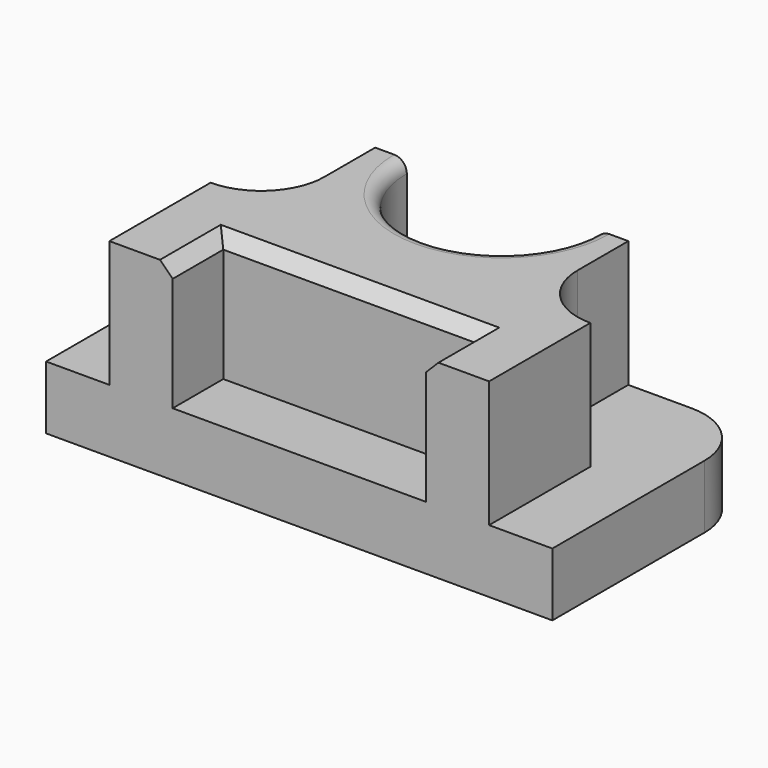
from build123d import *

# Parameters (mm, degrees)
F1_DEPTH = 6.35
F3_DEPTH = 12.7
F4_R     = 9.525
F5_DEPTH = 25.4
F6_R     = 1.27
F7_SIZE  = 1.27


with BuildPart() as f1:
    # F0 (on Top) → F1 (new body)
    with BuildSketch(Plane.XY):
        with BuildLine():
            ThreePointArc((25.4, 6.35), (23.540128, 10.840128), (19.05, 12.7))
            Line((19.05, 12.7), (-19.05, 12.7))
            ThreePointArc((-19.05, 12.7), (-23.540128, 10.840128), (-25.4, 6.35))
            Line((-25.4, 6.35), (-25.4, -12.7))
            Line((-25.4, -12.7), (25.4, -12.7))
            Line((25.4, -12.7), (25.4, 6.35))
        make_face()
    extrude(amount=F1_DEPTH)

    # F2 (on face) → F3 (join)
    with BuildSketch(Plane.XY.offset(6.35)):
        with BuildLine():
            Line((-9.525, 12.7), (-12.7, 12.7))
            Line((-12.7, 12.7), (-12.7, 6.35))
            ThreePointArc((-12.7, 6.35), (-14.559872, 1.859872), (-19.05, 0))
            Line((-19.05, 0), (-19.05, -12.7))
            Line((-19.05, -12.7), (-12.7, -12.7))
            Line((-12.7, -12.7), (-12.7, -6.35))
            Line((-12.7, -6.35), (12.7, -6.35))
            Line((12.7, -6.35), (12.7, -12.7))
            Line((12.7, -12.7), (19.05, -12.7))
            Line((19.05, -12.7), (19.05, 0))
            ThreePointArc((19.05, 0), (14.559872, 1.859872), (12.7, 6.35))
            Line((12.7, 6.35), (12.7, 12.7))
            Line((12.7, 12.7), (9.525, 12.7))
            ThreePointArc((9.525, 12.7), (0, 3.175), (-9.525, 12.7))
        make_face()
    extrude(amount=F3_DEPTH)

    # F4 (on face) → F5 (cut)
    with BuildSketch(Plane.XY.offset(6.35)):
        with Locations((0, 12.7)):
            Circle(F4_R)
    extrude(amount=-F5_DEPTH, mode=Mode.SUBTRACT)

    # F6
    f6_edges = [f1.edges().sort_by_distance(p)[0] for p in [
        (0, 3.175, 19.05),
    ]]
    fillet(f6_edges, radius=F6_R)

    # F7
    f7_edges = [f1.edges().sort_by_distance(p)[0] for p in [
        (0, -6.35, 19.05),
        (12.7, -9.525, 19.05),
        (-12.7, -9.525, 19.05),
    ]]
    chamfer(f7_edges, length=F7_SIZE)


solid = f1.part
